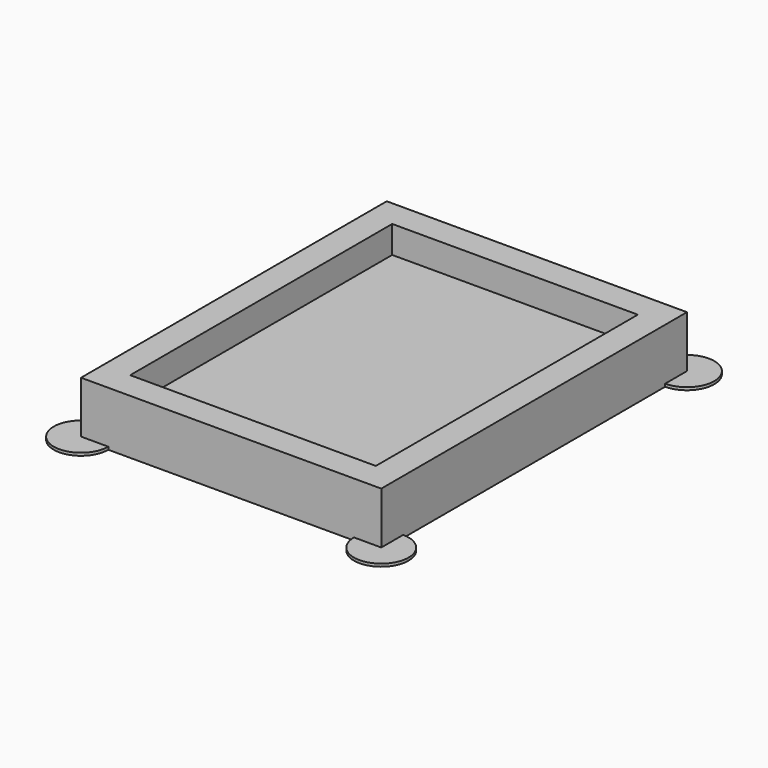
from build123d import *

# Parameters (mm, degrees)
F0_W     = 55.000004
F0_H     = 70.000004
F0_W_2   = 45
F0_H_2   = 60
F1_DEPTH = 5
F2_W     = 55.000004
F2_H     = 70.000004
F3_DEPTH = 5
F4_R     = 5
F5_DEPTH = 0.5


with BuildPart() as f1:
    # F0 (on Top) → F1 (new body)
    with BuildSketch(Plane.XY):
        Rectangle(F0_W, F0_H)
        Rectangle(F0_W_2, F0_H_2, mode=Mode.SUBTRACT)
    extrude(amount=F1_DEPTH)

    # F2 (on face) → F3 (join)
    with BuildSketch(Plane(origin=(0, 0, 0), x_dir=(1, 0, 0), z_dir=(0, 0, -1))):
        Rectangle(F2_W, F2_H)
    extrude(amount=F3_DEPTH)

    # F4 (on face) → F5 (join)
    with BuildSketch(Plane(origin=(0, 0, -5), x_dir=(1, 0, 0), z_dir=(0, 0, -1))):
        with Locations((-27.500002, 35.000002)):
            Circle(F4_R)
        with Locations((27.500002, 35.000002)):
            Circle(F4_R)
        with Locations((27.500002, -35.000002)):
            Circle(F4_R)
        with Locations((-27.500002, -35.000002)):
            Circle(F4_R)
    extrude(amount=-F5_DEPTH)


solid = f1.part
